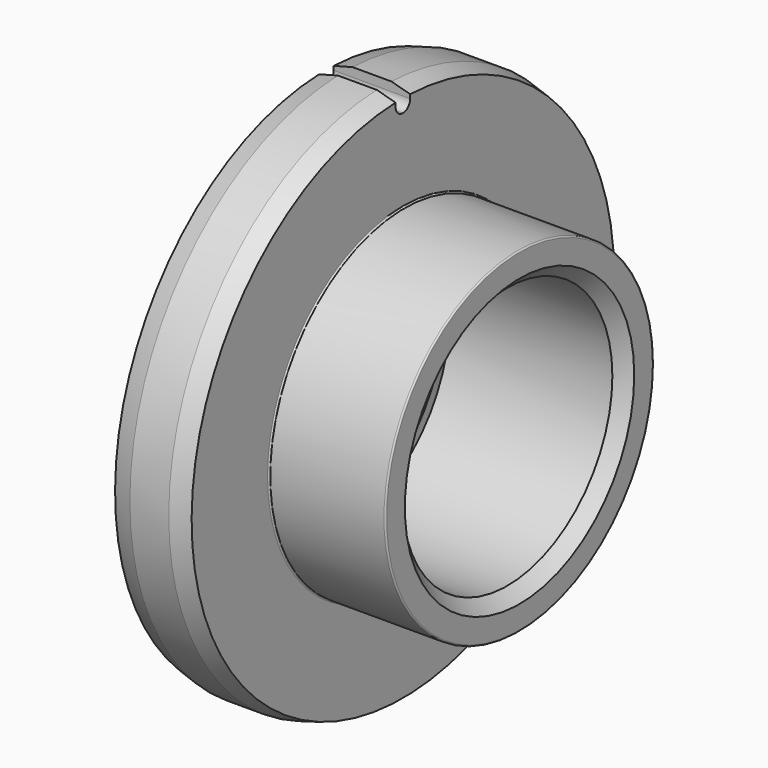
from build123d import *

# Parameters (mm, degrees)
F2_SIZE  = 1
F3_SIZE  = 1.5
F5_DEPTH = 25
F6_R     = 0.12


with BuildPart() as f1:
    # F0 (on Top) → F1 (revolve)
    with BuildSketch(Plane.XY):
        Polygon((-20.277789, 22.15), (-21.827789, 21.734679), (-21.827789, 10.8), (-5.927789, 10.8), (-5.927789, 13.8), (-15.527789, 13.8), (-15.527789, 21.734679), (-17.077789, 22.15), align=None)
    revolve(axis=Axis((-0.12533, 0, 0), (1, 0, 0)))

    # F2
    f2_edges = [f1.edges().sort_by_distance(p)[0] for p in [
        (-5.927789, -10.8, 0),
    ]]
    chamfer(f2_edges, length=F2_SIZE)

    # F3
    f3_edges = [f1.edges().sort_by_distance(p)[0] for p in [
        (-21.827789, -10.8, 0),
    ]]
    chamfer(f3_edges, length=F3_SIZE)

    # F4 (on face) → F5 (cut)
    with BuildSketch(Plane(origin=(-21.827789, 0, 0), x_dir=(0, -1, 0), z_dir=(-1, 0, 0))):
        with BuildLine():
            ThreePointArc((-0.75, 21.4), (-0.53033, 20.86967), (0, 20.65))
            Line((0, 20.65), (0, 23.059197))
            Line((0, 23.059197), (-0.75, 23.059197))
            Line((-0.75, 23.059197), (-0.75, 21.4))
        make_face()
        with BuildLine():
            Line((0, 23.059197), (0, 20.65))
            ThreePointArc((0, 20.65), (0.53033, 20.86967), (0.75, 21.4))
            Line((0.75, 21.4), (0.75, 23.059197))
            Line((0.75, 23.059197), (0, 23.059197))
        make_face()
        with BuildLine():
            ThreePointArc((0, 21.734679), (0.375056, 21.731443), (0.75, 21.721735))
            Line((0.75, 21.721735), (0.75, 23.059197))
            Line((0.75, 23.059197), (0, 23.059197))
            Line((0, 23.059197), (0, 21.734679))
        make_face()
        with BuildLine():
            Line((-0.75, 23.059197), (-0.75, 21.721735))
            ThreePointArc((-0.75, 21.721735), (-0.375056, 21.731443), (0, 21.734679))
            Line((0, 21.734679), (0, 23.059197))
            Line((0, 23.059197), (-0.75, 23.059197))
        make_face()
        with BuildLine():
            ThreePointArc((0, 21.734679), (-0.375056, 21.731443), (-0.75, 21.721735))
            Line((-0.75, 21.721735), (-0.75, 21.4))
            ThreePointArc((-0.75, 21.4), (-0.53033, 20.86967), (0, 20.65))
            Line((0, 20.65), (0, 21.734679))
        make_face()
        with BuildLine():
            Line((0.75, 21.4), (0.75, 21.721735))
            ThreePointArc((0.75, 21.721735), (0.375056, 21.731443), (0, 21.734679))
            Line((0, 21.734679), (0, 20.65))
            ThreePointArc((0, 20.65), (0.53033, 20.86967), (0.75, 21.4))
        make_face()
    extrude(amount=-F5_DEPTH, mode=Mode.SUBTRACT)

    # F6
    f6_edges = [f1.edges().sort_by_distance(p)[0] for p in [
        (-15.527789, -13.8, 0),
        (-5.927789, -13.8, 0),
    ]]
    fillet(f6_edges, radius=F6_R)


solid = f1.part
